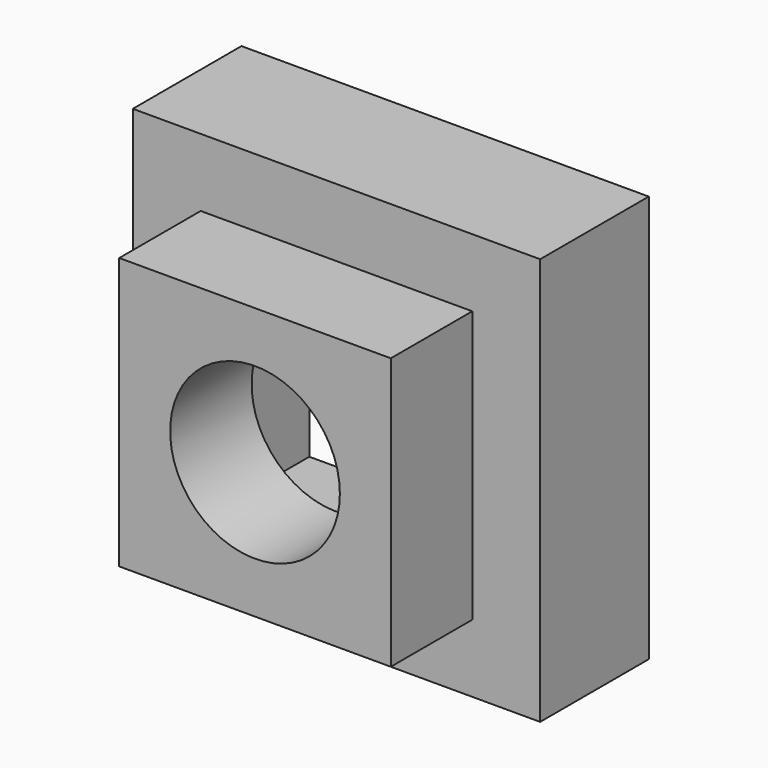
from build123d import *

# Parameters (mm, degrees)
F0_W     = 101.6
F0_H     = 101.6
F0_R     = 31.75
F1_DEPTH = 38.1
F0_W_2   = 152.4
F0_H_2   = 152.4
F2_DEPTH = 50.8


with BuildPart() as f1:
    # F0 (on Front) → F1 (new body)
    with BuildSketch(Plane.XZ):
        Rectangle(F0_W, F0_H)
        Circle(F0_R, mode=Mode.SUBTRACT)
    extrude(amount=F1_DEPTH)


with BuildPart() as f2:
    # F0 (on Front) → F2 (new body)
    with BuildSketch(Plane.XZ):
        Rectangle(F0_W_2, F0_H_2)
        Rectangle(F0_W, F0_H, mode=Mode.SUBTRACT)
    extrude(amount=-F2_DEPTH)


solid = Compound([f1.part, f2.part])
